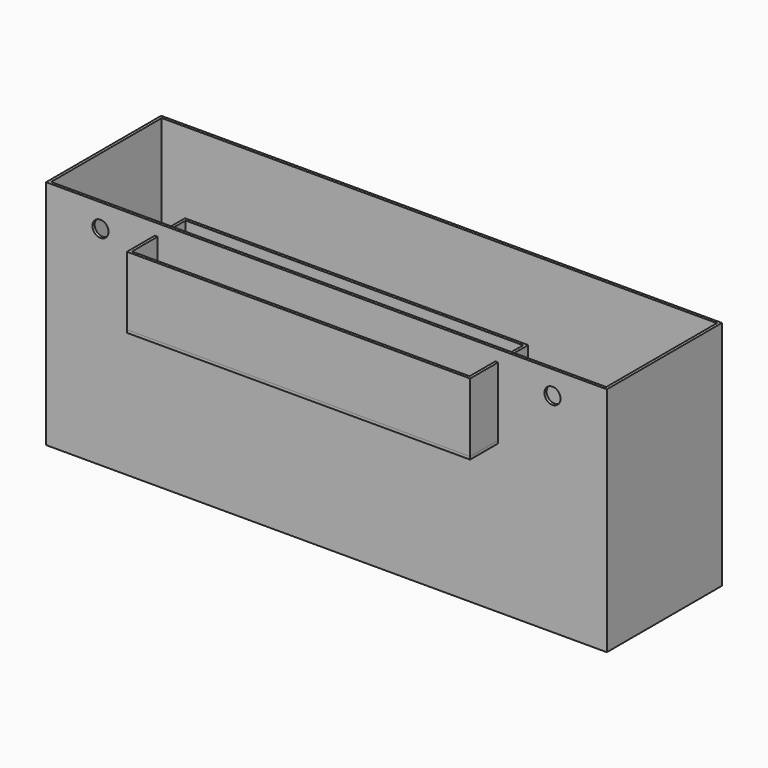
from build123d import *

# Parameters (mm, degrees)
F0_W      = 1219.2
F0_H      = 312.7375
F1_DEPTH  = 503.2375
F2_T      = -6
F4_W      = 6
F4_H      = 69.85
F5_DEPTH  = 174.625
F6_DEPTH  = 25.4
F7_W      = 746.125
F7_H      = 75.85
F8_DEPTH  = 6
F3_R      = 22.225
F9_DEPTH  = 75.85
F3_R_2    = 17.5
F10_DEPTH = 6


with BuildPart() as f1:
    # F0 (on Top) → F1 (new body)
    with BuildSketch(Plane.XY):
        Rectangle(F0_W, F0_H)
    extrude(amount=F1_DEPTH)

    # F2
    f2_openings = [f1.faces().sort_by_distance(p)[0] for p in [
        (0, 0, 503.2375),
    ]]
    offset(amount=F2_T, openings=f2_openings)

    # F3 (on face) → F9 (cut, through all)
    with BuildSketch(Plane.XZ.offset(156.36875)):
        with Locations((279.796875, 392.1125)):
            Circle(F3_R)
        with Locations((0, 392.1125)):
            Circle(F3_R)
        with Locations((-279.796875, 392.1125)):
            Circle(F3_R)
    extrude(amount=-F9_DEPTH, mode=Mode.SUBTRACT)

    # F3 (on face) → F10 (cut, through all)
    with BuildSketch(Plane.XZ.offset(156.36875)):
        with Locations((-491.33125, 452.4375)):
            Circle(F3_R_2)
        with Locations((491.33125, 452.4375)):
            Circle(F3_R_2)
    extrude(amount=-F10_DEPTH, mode=Mode.SUBTRACT)


with BuildPart() as f5:
    # F4 (on face) → F5 (new body)
    with BuildSketch(Plane.XY.offset(503.2375)):
        with Locations((370.0625, -115.44375)):
            Rectangle(F4_W, F4_H)
        Polygon((-373.0625, -74.51875), (-373.0625, -80.51875), (-367.0625, -80.51875), (367.0625, -80.51875), (373.0625, -80.51875), (373.0625, -74.51875), align=None)
        with Locations((-370.0625, -115.44375)):
            Rectangle(F4_W, F4_H)
    extrude(amount=-F5_DEPTH)

    # F6 (cut): a face of the model
    f6_faces = [f5.faces().sort_by_distance(p)[0] for p in [
        (367.8124704915, -115.44375, 503.2375),
    ]]
    extrude(f6_faces, amount=-F6_DEPTH, mode=Mode.SUBTRACT)


with BuildPart() as f8:
    # F7 (on face) → F8 (new body)
    with BuildSketch(Plane(origin=(0, 0, 328.6125), x_dir=(1, 0, 0), z_dir=(0, 0, -1))):
        with Locations((0, 112.44375)):
            Rectangle(F7_W, F7_H)
    extrude(amount=F8_DEPTH)


with BuildPart() as f11_1:
    # F11: instance of F5
    add(f5.part.mirror(Plane.XZ.offset(156.36875)))


with BuildPart() as f11_2:
    # F11: instance of F8
    add(f8.part.mirror(Plane.XZ.offset(156.36875)))


with BuildPart() as f11_1_1:
    # F12: moved
    add(f11_1.part.moved(Location((0, 6, 0))))


with BuildPart() as f11_2_1:
    # F12: moved
    add(f11_2.part.moved(Location((0, 6, 0))))


solid = Compound([f1.part, f5.part, f8.part, f11_1_1.part, f11_2_1.part])
